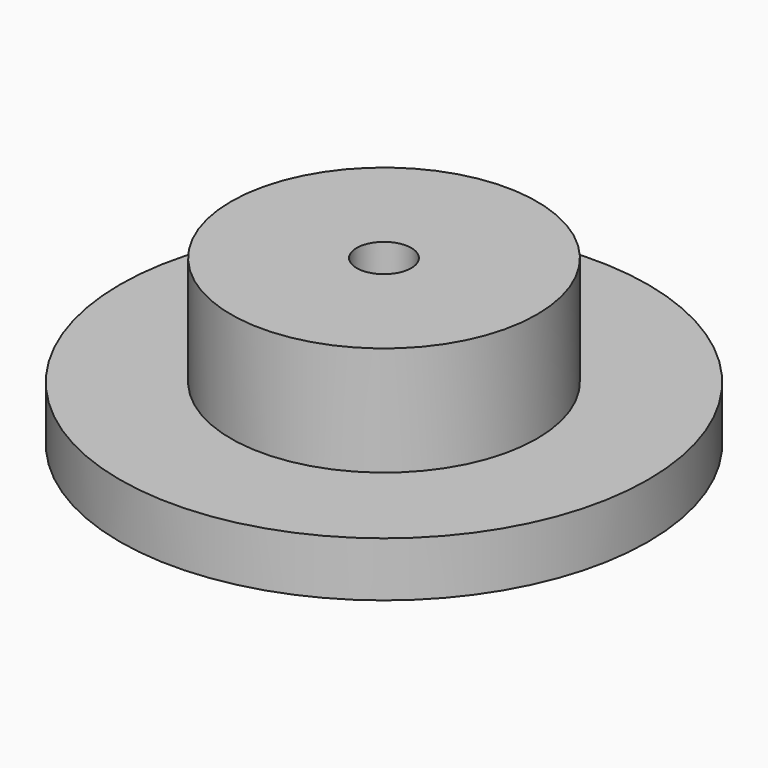
from build123d import *

# Parameters (mm, degrees)
F0_R     = 14.5
F0_R_2   = 8.4
F1_DEPTH = 3
F2_DEPTH = 9
F3_START = 2.5
F0_R_3   = 1.5
F3_DEPTH = 6.5


with BuildPart() as f1:
    # F0 (on Top) → F1 (new body)
    with BuildSketch(Plane.XY):
        Circle(F0_R)
        Circle(F0_R_2, mode=Mode.SUBTRACT)
    extrude(amount=F1_DEPTH)

    # F0 (on Top) → F2 (join)
    with BuildSketch(Plane.XY):
        Circle(F0_R_2)
        Polygon((-2.75, -1.5877132403), (-2.75, 1.5877132403), (0, 3.1754264805), (2.75, 1.5877132403), (2.75, -1.5877132403), (0, -3.1754264805), align=None, mode=Mode.SUBTRACT)
    extrude(amount=F2_DEPTH)

    # F0 (on Top) → F3 (join)
    with BuildSketch(Plane.XY.offset(F3_START)):
        Polygon((0, 3.1754264805), (-2.75, 1.5877132403), (-2.75, -1.5877132403), (0, -3.1754264805), (2.75, -1.5877132403), (2.75, 1.5877132403), align=None)
        Circle(F0_R_3, mode=Mode.SUBTRACT)
    extrude(amount=F3_DEPTH)


solid = f1.part
